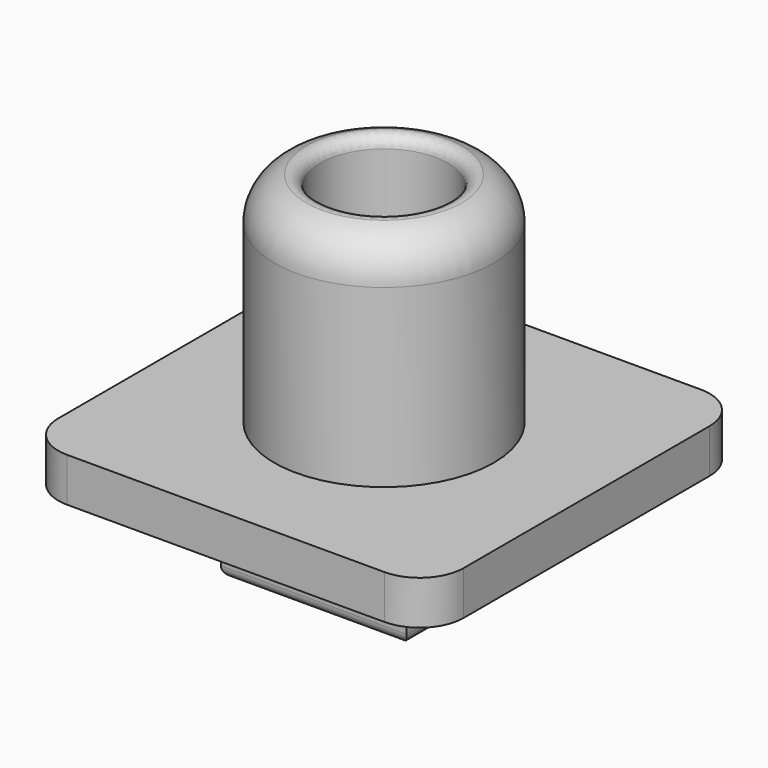
from build123d import *

# Parameters (mm, degrees)
F0_W     = 8.45
F0_H     = 8
F1_DEPTH = 4
F2_W     = 18.45
F2_H     = 18
F3_DEPTH = 2
F4_R     = 5
F5_DEPTH = 10
F6_R     = 2.9
F7_DEPTH = 16.001
F8_R     = 2
F9_R     = 0.5


with BuildPart() as f1:
    # F0 (on Top) → F1 (new body)
    with BuildSketch(Plane.XY):
        Rectangle(F0_W, F0_H)
    extrude(amount=F1_DEPTH)

    # F2 (on face) → F3 (join)
    with BuildSketch(Plane.XY.offset(4)):
        Rectangle(F2_W, F2_H)
    extrude(amount=F3_DEPTH)

    # F4 (on face) → F5 (join)
    with BuildSketch(Plane.XY.offset(6)):
        Circle(F4_R)
    extrude(amount=F5_DEPTH)

    # F6 (on face) → F7 (cut, through all)
    with BuildSketch(Plane.XY.offset(16)):
        Circle(F6_R)
    extrude(amount=-F7_DEPTH, mode=Mode.SUBTRACT)

    # F8
    f8_edges = [f1.edges().sort_by_distance(p)[0] for p in [
        (-9.225, 9, 5),
        (9.225, 9, 5),
        (9.225, -9, 5),
        (-9.225, -9, 5),
        (-5, 0, 16),
    ]]
    fillet(f8_edges, radius=F8_R)

    # F9
    f9_edges = [f1.edges().sort_by_distance(p)[0] for p in [
        (-2.9, 0, 16),
        (-2.9, 0, 0),
        (-4.225, 0, 0),
        (0, 4, 0),
        (0, -4, 0),
        (4.225, 0, 0),
    ]]
    fillet(f9_edges, radius=F9_R)


solid = f1.part
